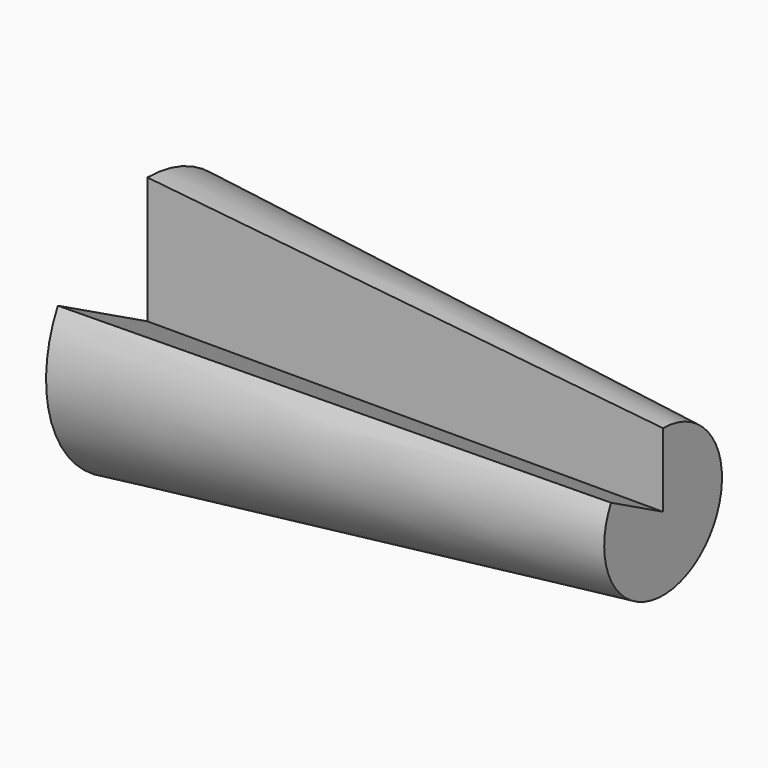
from build123d import *

# Parameters (mm, degrees)
F1_ANGLE = -297.890901


with BuildPart() as f1:
    # F0 (on Front) → F1 (revolve)
    with BuildSketch(Plane.XZ):
        Polygon((0, 25.304472), (0, 0), (103.049263, 0), (103.049263, 14.705811), align=None)
    revolve(axis=Axis((16.129031, 0, 0), (1, 0, 0)), revolution_arc=F1_ANGLE)


solid = f1.part
